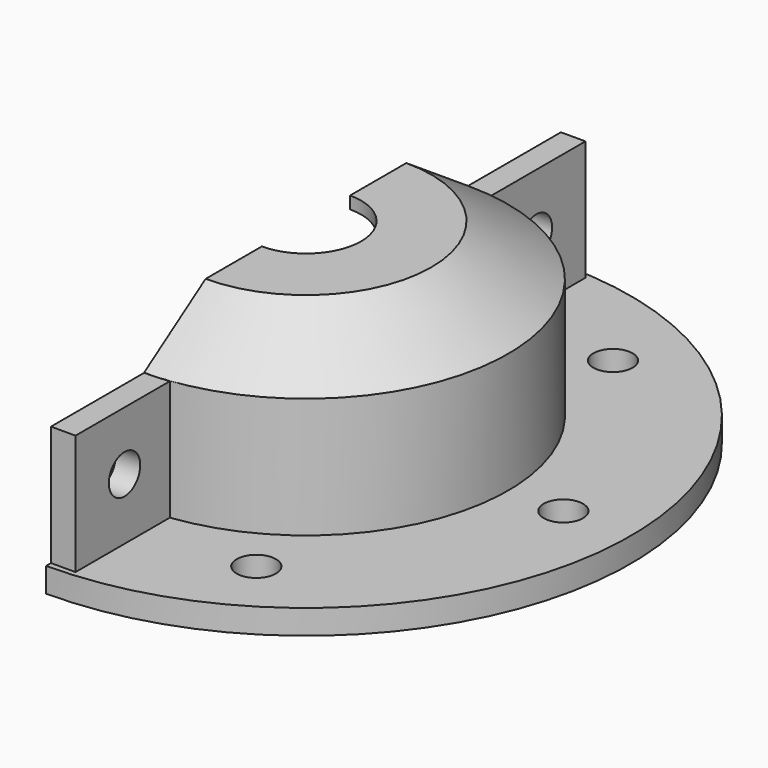
from build123d import *

# Parameters (mm, degrees)
REVOLUTION_ANGLE = -180
SKETCH001_R      = 1.6
POCKET_DEPTH     = 5
SKETCH002_R      = 3.25
PAD_DEPTH        = 3
SKETCH003_W      = 2
SKETCH003_H      = 10
PAD001_DEPTH     = 9.8
SKETCH004_R      = 1.6
POCKET001_DEPTH  = 5


with BuildPart() as part:
    # Sketch → Revolution (revolve, symmetric)
    with BuildSketch(Plane.XZ) as revolution_sk:
        Polygon((4.5, 20), (8.5, 20), (14.5, 16), (14.5, 0), (16.5, 0), (16.5, 5), (26.5, 5), (26.5, 7), (16.5, 7), (16.5, 16.821367), (10.232051, 21), (4.5, 21), align=None)
    revolve(axis=Axis((0, 0, 0), (0, 0, 1)), revolution_arc=REVOLUTION_ANGLE / 2)
    revolve(revolution_sk.sketch, axis=Axis((0, 0, 0), (0, 0, -1)), revolution_arc=REVOLUTION_ANGLE / 2)

    # Sketch001 (on Face8 of Revolution) → Pocket (cut)
    with BuildSketch(Plane(origin=(0, 0, 7), x_dir=(-1, 0, 0), z_dir=(0, 0, 1))):
        with Locations((-21, 0)):
            Circle(SKETCH001_R)
        with Locations((-10.5, 18.186533)):
            Circle(SKETCH001_R)
        with Locations((-10.5, -18.186533)):
            Circle(SKETCH001_R)
    extrude(amount=-POCKET_DEPTH, mode=Mode.SUBTRACT)

    # Sketch002 (on Face1 of Pocket) → Pad (join)
    with BuildSketch(Plane(origin=(0, 0, 20), x_dir=(1, 0, 0), z_dir=(0, 0, -1))):
        with Locations((5.628499, 5.4)):
            Circle(SKETCH002_R)
        with Locations((5.628499, -5.4)):
            Circle(SKETCH002_R)
    extrude(amount=PAD_DEPTH)

    # Sketch003 (on Face13 of Pad) → Pad001 (join)
    with BuildSketch(Plane(origin=(0, 0, 7), x_dir=(-1, 0, 0), z_dir=(0, 0, 1))):
        with Locations((-1, 21)):
            Rectangle(SKETCH003_W, SKETCH003_H)
        with Locations((-1, -21)):
            Rectangle(SKETCH003_W, SKETCH003_H)
    extrude(amount=PAD001_DEPTH)

    # Sketch004 (on Face21 of Pad001) → Pocket001 (cut)
    with BuildSketch(Plane(origin=(0, 0, 0), x_dir=(0, 0, -1), z_dir=(-1, 0, 0))):
        with Locations((-12, -21)):
            Circle(SKETCH004_R)
        with Locations((-12, 21)):
            Circle(SKETCH004_R)
    extrude(amount=-POCKET001_DEPTH, mode=Mode.SUBTRACT)


solid = part.part
